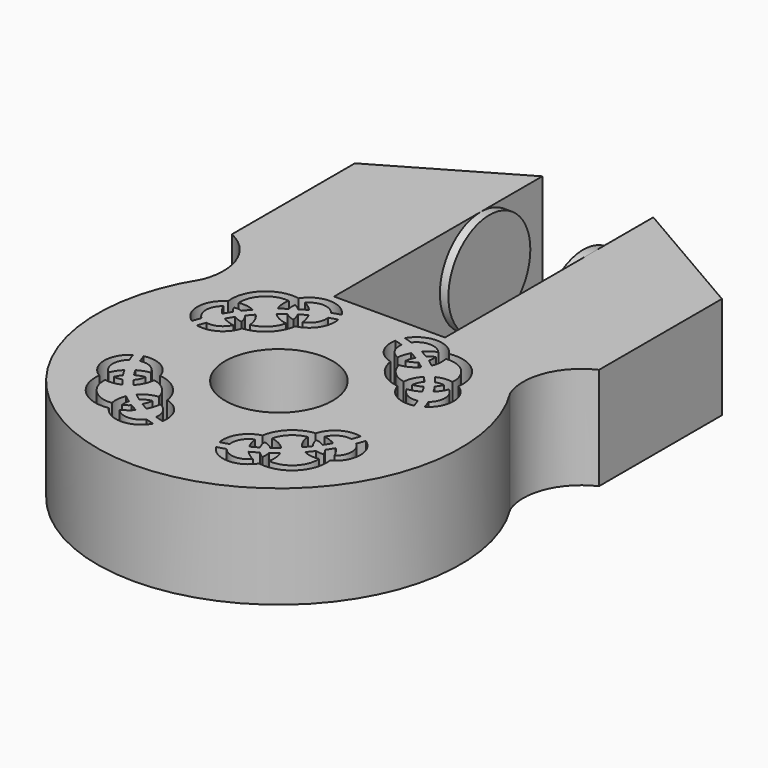
from build123d import *

# Parameters (mm, degrees)
F0_R          = 3.15
F1_DEPTH      = 6
F3_START      = 27.9
F2_R          = 3
F3_DEPTH      = 8.7
F5_DEPTH      = 19
F5_DEPTH_BACK = 25


with BuildPart() as f1:
    # F0 (on Top) → F1 (new body)
    with BuildSketch(Plane.XY):
        with BuildLine():
            Line((29.040071249, 38.9677833527), (29.040071249, 41.0097752675))
            ThreePointArc((29.040071249, 41.0097752675), (25.7590513112, 39.2801717515), (23.2701560445, 36.5302589336))
            ThreePointArc((23.2701560445, 36.5302589336), (32.290071249, 20.2177833527), (41.3099864535, 36.5302589336))
            ThreePointArc((41.3099864535, 36.5302589336), (38.8210911868, 39.2801717515), (35.540071249, 41.0097752675))
            Line((35.540071249, 41.0097752675), (35.540071249, 38.9677833527))
            Line((35.540071249, 38.9677833527), (32.290071249, 38.9677833527))
            Line((32.290071249, 38.9677833527), (29.040071249, 38.9677833527))
        make_face()
        with BuildLine():
            ThreePointArc((27.8877203609, 23.9150052295), (26.1387830721, 24.4357033031), (25.5405887312, 26.1596730402))
            ThreePointArc((25.5405887312, 26.1596730402), (24.7918203109, 27.4180215943), (25.4719329736, 28.7147644358))
            ThreePointArc((25.4719329736, 28.7147644358), (25.555043347, 28.4673877272), (25.6471257525, 28.2232086931))
            ThreePointArc((25.6471257525, 28.2232086931), (25.2915218496, 27.436279571), (25.6814485039, 26.6657805227))
            ThreePointArc((25.6814485039, 26.6657805227), (25.8613966017, 26.9970899772), (26.1003251005, 27.288741216))
            ThreePointArc((26.1003251005, 27.288741216), (26.2340964048, 27.066774449), (26.3758239621, 26.849801393))
            ThreePointArc((26.3758239621, 26.849801393), (26.2443611547, 26.6684839884), (26.1413601334, 26.4696140296))
            ThreePointArc((26.1413601334, 26.4696140296), (26.3827793564, 26.4625072644), (26.6188610264, 26.5134895396))
            ThreePointArc((26.6188610264, 26.5134895396), (26.781537443, 26.3094332885), (26.951552024, 26.1114494196))
            ThreePointArc((26.951552024, 26.1114494196), (26.4983669469, 25.9726762165), (26.0245067054, 25.9822254328))
            ThreePointArc((26.0245067054, 25.9822254328), (26.4843610596, 24.7970561149), (27.6888633314, 24.3905261448))
            ThreePointArc((27.6888633314, 24.3905261448), (27.6581862138, 24.8634887548), (27.776606132, 25.322412974))
            ThreePointArc((27.776606132, 25.322412974), (27.9819767444, 25.1613990563), (28.1930863622, 25.0079868685))
            ThreePointArc((28.1930863622, 25.0079868685), (28.1526856903, 24.7698660314), (28.1705543294, 24.5290041227))
            ThreePointArc((28.1705543294, 24.5290041227), (28.3646317872, 24.6407735786), (28.539904572, 24.7801935263))
            ThreePointArc((28.539904572, 24.7801935263), (28.7629836753, 24.6482855236), (28.9906966156, 24.5245486079))
            ThreePointArc((28.9906966156, 24.5245486079), (28.7099935253, 24.2728482947), (28.3870407651, 24.0783006469))
            ThreePointArc((28.3870407651, 24.0783006469), (29.1741662683, 23.7231316431), (29.9444497315, 24.1134840037))
            ThreePointArc((29.9444497315, 24.1134840037), (30.1924932194, 24.0323853095), (30.4433309849, 23.9603923549))
            ThreePointArc((30.4433309849, 23.9603923549), (29.1782165702, 23.2231130669), (27.8877203609, 23.9150052295))
        make_face(mode=Mode.SUBTRACT)
        with BuildLine():
            ThreePointArc((26.0992011688, 28.4396919932), (26.0117342514, 28.6757558563), (25.9332650097, 28.9149611807))
            ThreePointArc((25.9332650097, 28.9149611807), (27.0443453453, 28.7555752931), (27.7337409236, 27.8697778501))
            ThreePointArc((27.7337409236, 27.8697778501), (28.9034069718, 27.3265257973), (29.4982933846, 26.1822567673))
            ThreePointArc((29.4982933846, 26.1822567673), (30.4139608782, 25.5330600216), (30.6227498952, 24.4301953337))
            ThreePointArc((30.6227498952, 24.4301953337), (30.3802824064, 24.4979162759), (30.1405518942, 24.5747660682))
            ThreePointArc((30.1405518942, 24.5747660682), (30.01510222, 25.2271891987), (29.508499872, 25.6570119795))
            ThreePointArc((29.508499872, 25.6570119795), (29.4304608021, 25.2858647559), (29.2837607679, 24.9361227681))
            ThreePointArc((29.2837607679, 24.9361227681), (29.0628601776, 25.0533522799), (28.8465235362, 25.1788046088))
            ThreePointArc((28.8465235362, 25.1788046088), (28.9542000767, 25.4381586808), (29.0116486595, 25.7130376222))
            ThreePointArc((29.0116486595, 25.7130376222), (28.709681083, 25.6199408865), (28.4518378479, 25.437271005))
            ThreePointArc((28.4518378479, 25.437271005), (28.2490436993, 25.5864391732), (28.0520408702, 25.7431761963))
            ThreePointArc((28.0520408702, 25.7431761963), (28.4757034232, 26.0619767852), (28.9838127658, 26.2134649705))
            ThreePointArc((28.9838127658, 26.2134649705), (28.5578289844, 26.9651729855), (27.7878674158, 27.3572014345))
            ThreePointArc((27.7878674158, 27.3572014345), (27.6591951693, 26.8428404452), (27.3596101545, 26.4053789117))
            ThreePointArc((27.3596101545, 26.4053789117), (27.1942414713, 26.5951941053), (27.0361757768, 26.7911324765))
            ThreePointArc((27.0361757768, 26.7911324765), (27.2071622612, 27.056867385), (27.2866965118, 27.3626871399))
            ThreePointArc((27.2866965118, 27.3626871399), (27.0146537791, 27.2930342602), (26.7603609728, 27.1738959341))
            ThreePointArc((26.7603609728, 27.1738959341), (26.6253834236, 27.3844212067), (26.4984169232, 27.5998726793))
            ThreePointArc((26.4984169232, 27.5998726793), (26.8412669602, 27.7620275749), (27.2085636751, 27.8565446698))
            ThreePointArc((27.2085636751, 27.8565446698), (26.7565708033, 28.3434697212), (26.0992011688, 28.4396919932))
        make_face(mode=Mode.SUBTRACT)
        with BuildLine():
            ThreePointArc((25.9332650097, 32.8206055248), (26.0117342514, 33.0598108491), (26.0992011688, 33.2958747122))
            ThreePointArc((26.0992011688, 33.2958747122), (26.7565708033, 33.3920969842), (27.2085636751, 33.8790220357))
            ThreePointArc((27.2085636751, 33.8790220357), (26.8412669602, 33.9735391306), (26.4984169232, 34.1356940262))
            ThreePointArc((26.4984169232, 34.1356940262), (26.6253834236, 34.3511454987), (26.7603609728, 34.5616707714))
            ThreePointArc((26.7603609728, 34.5616707714), (27.0146537791, 34.4425324453), (27.2866965118, 34.3728795656))
            ThreePointArc((27.2866965118, 34.3728795656), (27.2071622612, 34.6786993204), (27.0361757768, 34.944434229))
            ThreePointArc((27.0361757768, 34.944434229), (27.1942414713, 35.1403726001), (27.3596101545, 35.3301877938))
            ThreePointArc((27.3596101545, 35.3301877938), (27.6591951693, 34.8927262603), (27.7878674158, 34.378365271))
            ThreePointArc((27.7878674158, 34.378365271), (28.5578289844, 34.7703937199), (28.9838127658, 35.522101735))
            ThreePointArc((28.9838127658, 35.522101735), (28.4757034232, 35.6735899203), (28.0520408702, 35.9923905092))
            ThreePointArc((28.0520408702, 35.9923905092), (28.2490436993, 36.1491275323), (28.4518378479, 36.2982957004))
            ThreePointArc((28.4518378479, 36.2982957004), (28.709681083, 36.1156258189), (29.0116486595, 36.0225290833))
            ThreePointArc((29.0116486595, 36.0225290833), (28.9542000767, 36.2974080246), (28.8465235362, 36.5567620967))
            ThreePointArc((28.8465235362, 36.5567620967), (29.0628601776, 36.6822144255), (29.2837607679, 36.7994439374))
            ThreePointArc((29.2837607679, 36.7994439374), (29.4304608021, 36.4497019496), (29.508499872, 36.078554726))
            ThreePointArc((29.508499872, 36.078554726), (30.01510222, 36.5083775068), (30.1405518942, 37.1608006372))
            ThreePointArc((30.1405518942, 37.1608006372), (30.3802824064, 37.2376504296), (30.6227498952, 37.3053713718))
            ThreePointArc((30.6227498952, 37.3053713718), (30.4139608782, 36.2025066839), (29.4982933846, 35.5533099382))
            ThreePointArc((29.4982933846, 35.5533099382), (28.9034069718, 34.4090409082), (27.7337409236, 33.8657888553))
            ThreePointArc((27.7337409236, 33.8657888553), (27.0443453453, 32.9799914124), (25.9332650097, 32.8206055248))
        make_face(mode=Mode.SUBTRACT)
        with BuildLine():
            ThreePointArc((25.6814485039, 35.0697861827), (25.2915218496, 34.2992871345), (25.6471257525, 33.5123580124))
            ThreePointArc((25.6471257525, 33.5123580124), (25.555043347, 33.2681789783), (25.4719329736, 33.0208022697))
            ThreePointArc((25.4719329736, 33.0208022697), (24.7918203109, 34.3175451112), (25.5405887312, 35.5758936653))
            ThreePointArc((25.5405887312, 35.5758936653), (26.1387830721, 37.2998634024), (27.8877203609, 37.8205614759))
            ThreePointArc((27.8877203609, 37.8205614759), (29.1782165702, 38.5124536386), (30.4433309849, 37.7751743506))
            ThreePointArc((30.4433309849, 37.7751743506), (30.1924932194, 37.703181396), (29.9444497315, 37.6220827018))
            ThreePointArc((29.9444497315, 37.6220827018), (29.1741662683, 38.0124350624), (28.3870407651, 37.6572660586))
            ThreePointArc((28.3870407651, 37.6572660586), (28.7099935253, 37.4627184108), (28.9906966156, 37.2110180976))
            ThreePointArc((28.9906966156, 37.2110180976), (28.7629836753, 37.0872811819), (28.539904572, 36.9553731791))
            ThreePointArc((28.539904572, 36.9553731791), (28.3646317872, 37.0947931268), (28.1705543294, 37.2065625827))
            ThreePointArc((28.1705543294, 37.2065625827), (28.1526856903, 36.965700674), (28.1930863622, 36.727579837))
            ThreePointArc((28.1930863622, 36.727579837), (27.9819767444, 36.5741676492), (27.776606132, 36.4131537315))
            ThreePointArc((27.776606132, 36.4131537315), (27.6581862138, 36.8720779507), (27.6888633314, 37.3450405607))
            ThreePointArc((27.6888633314, 37.3450405607), (26.4843610596, 36.9385105906), (26.0245067054, 35.7533412726))
            ThreePointArc((26.0245067054, 35.7533412726), (26.4983669469, 35.7628904889), (26.951552024, 35.6241172859))
            ThreePointArc((26.951552024, 35.6241172859), (26.781537443, 35.4261334169), (26.6188610264, 35.2220771659))
            ThreePointArc((26.6188610264, 35.2220771659), (26.3827793564, 35.273059441), (26.1413601334, 35.2659526759))
            ThreePointArc((26.1413601334, 35.2659526759), (26.2443611547, 35.0670827171), (26.3758239621, 34.8857653125))
            ThreePointArc((26.3758239621, 34.8857653125), (26.2340964048, 34.6687922565), (26.1003251005, 34.4468254895))
            ThreePointArc((26.1003251005, 34.4468254895), (25.8613966017, 34.7384767282), (25.6814485039, 35.0697861827))
        make_face(mode=Mode.SUBTRACT)
        with BuildLine():
            ThreePointArc((36.1931017329, 24.0783006469), (35.8701489727, 24.2728482947), (35.5894458824, 24.5245486079))
            ThreePointArc((35.5894458824, 24.5245486079), (35.8171588227, 24.6482855236), (36.040237926, 24.7801935263))
            ThreePointArc((36.040237926, 24.7801935263), (36.2155107108, 24.6407735786), (36.4095881687, 24.5290041227))
            ThreePointArc((36.4095881687, 24.5290041227), (36.4274568077, 24.7698660314), (36.3870561358, 25.0079868685))
            ThreePointArc((36.3870561358, 25.0079868685), (36.5981657536, 25.1613990563), (36.803536366, 25.322412974))
            ThreePointArc((36.803536366, 25.322412974), (36.9219562842, 24.8634887548), (36.8912791666, 24.3905261448))
            ThreePointArc((36.8912791666, 24.3905261448), (38.0957814384, 24.7970561149), (38.5556357926, 25.9822254328))
            ThreePointArc((38.5556357926, 25.9822254328), (38.0817755512, 25.9726762165), (37.6285904741, 26.1114494196))
            ThreePointArc((37.6285904741, 26.1114494196), (37.798605055, 26.3094332885), (37.9612814716, 26.5134895396))
            ThreePointArc((37.9612814716, 26.5134895396), (38.1973631417, 26.4625072644), (38.4387823646, 26.4696140296))
            ThreePointArc((38.4387823646, 26.4696140296), (38.3357813433, 26.6684839884), (38.2043185359, 26.849801393))
            ThreePointArc((38.2043185359, 26.849801393), (38.3460460932, 27.066774449), (38.4798173975, 27.288741216))
            ThreePointArc((38.4798173975, 27.288741216), (38.7187458963, 26.9970899772), (38.8986939941, 26.6657805227))
            ThreePointArc((38.8986939941, 26.6657805227), (39.2886206485, 27.436279571), (38.9330167455, 28.2232086931))
            ThreePointArc((38.9330167455, 28.2232086931), (39.025099151, 28.4673877272), (39.1082095245, 28.7147644358))
            ThreePointArc((39.1082095245, 28.7147644358), (39.7883221871, 27.4180215943), (39.0395537668, 26.1596730402))
            ThreePointArc((39.0395537668, 26.1596730402), (38.4413594259, 24.4357033031), (36.6924221371, 23.9150052295))
            ThreePointArc((36.6924221371, 23.9150052295), (35.4019259278, 23.2231130669), (34.1368115131, 23.9603923549))
            ThreePointArc((34.1368115131, 23.9603923549), (34.3876492786, 24.0323853095), (34.6356927665, 24.1134840037))
            ThreePointArc((34.6356927665, 24.1134840037), (35.4059762297, 23.7231316431), (36.1931017329, 24.0783006469))
        make_face(mode=Mode.SUBTRACT)
        with BuildLine():
            ThreePointArc((38.0817255749, 27.5998726793), (37.9547590745, 27.3844212067), (37.8197815252, 27.1738959341))
            ThreePointArc((37.8197815252, 27.1738959341), (37.5654887189, 27.2930342602), (37.2934459862, 27.3626871399))
            ThreePointArc((37.2934459862, 27.3626871399), (37.3729802368, 27.056867385), (37.5439667213, 26.7911324765))
            ThreePointArc((37.5439667213, 26.7911324765), (37.3859010267, 26.5951941053), (37.2205323435, 26.4053789117))
            ThreePointArc((37.2205323435, 26.4053789117), (36.9209473288, 26.8428404452), (36.7922750823, 27.3572014345))
            ThreePointArc((36.7922750823, 27.3572014345), (36.0223135136, 26.9651729855), (35.5963297322, 26.2134649705))
            ThreePointArc((35.5963297322, 26.2134649705), (36.1044390748, 26.0619767852), (36.5281016279, 25.7431761963))
            ThreePointArc((36.5281016279, 25.7431761963), (36.3310987987, 25.5864391732), (36.1283046501, 25.437271005))
            ThreePointArc((36.1283046501, 25.437271005), (35.8704614151, 25.6199408865), (35.5684938385, 25.7130376222))
            ThreePointArc((35.5684938385, 25.7130376222), (35.6259424213, 25.4381586808), (35.7336189619, 25.1788046088))
            ThreePointArc((35.7336189619, 25.1788046088), (35.5172823204, 25.0533522799), (35.2963817301, 24.9361227681))
            ThreePointArc((35.2963817301, 24.9361227681), (35.1496816959, 25.2858647559), (35.071642626, 25.6570119795))
            ThreePointArc((35.071642626, 25.6570119795), (34.565040278, 25.2271891987), (34.4395906038, 24.5747660682))
            ThreePointArc((34.4395906038, 24.5747660682), (34.1998600916, 24.4979162759), (33.9573926028, 24.4301953337))
            ThreePointArc((33.9573926028, 24.4301953337), (34.1661816199, 25.5330600216), (35.0818491134, 26.1822567673))
            ThreePointArc((35.0818491134, 26.1822567673), (35.6767355262, 27.3265257973), (36.8464015744, 27.8697778501))
            ThreePointArc((36.8464015744, 27.8697778501), (37.5357971527, 28.7555752931), (38.6468774883, 28.9149611807))
            ThreePointArc((38.6468774883, 28.9149611807), (38.5684082466, 28.6757558563), (38.4809413292, 28.4396919932))
            ThreePointArc((38.4809413292, 28.4396919932), (37.8235716947, 28.3434697212), (37.3715788229, 27.8565446698))
            ThreePointArc((37.3715788229, 27.8565446698), (37.7388755379, 27.7620275749), (38.0817255749, 27.5998726793))
        make_face(mode=Mode.SUBTRACT)
        with Locations((32.290071249, 30.8677833527)):
            Circle(F0_R, mode=Mode.SUBTRACT)
        with BuildLine():
            ThreePointArc((37.3715788229, 33.8790220357), (37.8235716947, 33.3920969842), (38.4809413292, 33.2958747122))
            ThreePointArc((38.4809413292, 33.2958747122), (38.5684082466, 33.0598108491), (38.6468774883, 32.8206055248))
            ThreePointArc((38.6468774883, 32.8206055248), (37.5357971527, 32.9799914124), (36.8464015744, 33.8657888553))
            ThreePointArc((36.8464015744, 33.8657888553), (35.6767355262, 34.4090409082), (35.0818491134, 35.5533099382))
            ThreePointArc((35.0818491134, 35.5533099382), (34.1661816199, 36.2025066839), (33.9573926028, 37.3053713718))
            ThreePointArc((33.9573926028, 37.3053713718), (34.1998600916, 37.2376504296), (34.4395906038, 37.1608006372))
            ThreePointArc((34.4395906038, 37.1608006372), (34.565040278, 36.5083775068), (35.071642626, 36.078554726))
            ThreePointArc((35.071642626, 36.078554726), (35.1496816959, 36.4497019496), (35.2963817301, 36.7994439374))
            ThreePointArc((35.2963817301, 36.7994439374), (35.5172823204, 36.6822144255), (35.7336189619, 36.5567620967))
            ThreePointArc((35.7336189619, 36.5567620967), (35.6259424213, 36.2974080246), (35.5684938385, 36.0225290833))
            ThreePointArc((35.5684938385, 36.0225290833), (35.8704614151, 36.1156258189), (36.1283046501, 36.2982957004))
            ThreePointArc((36.1283046501, 36.2982957004), (36.3310987987, 36.1491275323), (36.5281016279, 35.9923905092))
            ThreePointArc((36.5281016279, 35.9923905092), (36.1044390748, 35.6735899203), (35.5963297322, 35.522101735))
            ThreePointArc((35.5963297322, 35.522101735), (36.0223135136, 34.7703937199), (36.7922750823, 34.378365271))
            ThreePointArc((36.7922750823, 34.378365271), (36.9209473288, 34.8927262603), (37.2205323435, 35.3301877938))
            ThreePointArc((37.2205323435, 35.3301877938), (37.3859010267, 35.1403726001), (37.5439667213, 34.944434229))
            ThreePointArc((37.5439667213, 34.944434229), (37.3729802368, 34.6786993204), (37.2934459862, 34.3728795656))
            ThreePointArc((37.2934459862, 34.3728795656), (37.5654887189, 34.4425324453), (37.8197815252, 34.5616707714))
            ThreePointArc((37.8197815252, 34.5616707714), (37.9547590745, 34.3511454987), (38.0817255749, 34.1356940262))
            ThreePointArc((38.0817255749, 34.1356940262), (37.7388755379, 33.9735391306), (37.3715788229, 33.8790220357))
        make_face(mode=Mode.SUBTRACT)
        with BuildLine():
            ThreePointArc((37.9612814716, 35.2220771659), (37.798605055, 35.4261334169), (37.6285904741, 35.6241172859))
            ThreePointArc((37.6285904741, 35.6241172859), (38.0817755512, 35.7628904889), (38.5556357926, 35.7533412726))
            ThreePointArc((38.5556357926, 35.7533412726), (38.0957814384, 36.9385105906), (36.8912791666, 37.3450405607))
            ThreePointArc((36.8912791666, 37.3450405607), (36.9219562842, 36.8720779507), (36.803536366, 36.4131537315))
            ThreePointArc((36.803536366, 36.4131537315), (36.5981657536, 36.5741676492), (36.3870561358, 36.727579837))
            ThreePointArc((36.3870561358, 36.727579837), (36.4274568077, 36.965700674), (36.4095881687, 37.2065625827))
            ThreePointArc((36.4095881687, 37.2065625827), (36.2155107108, 37.0947931268), (36.040237926, 36.9553731791))
            ThreePointArc((36.040237926, 36.9553731791), (35.8171588227, 37.0872811819), (35.5894458824, 37.2110180976))
            ThreePointArc((35.5894458824, 37.2110180976), (35.8701489727, 37.4627184108), (36.1931017329, 37.6572660586))
            ThreePointArc((36.1931017329, 37.6572660586), (35.4059762297, 38.0124350624), (34.6356927665, 37.6220827018))
            ThreePointArc((34.6356927665, 37.6220827018), (34.3876492786, 37.703181396), (34.1368115131, 37.7751743506))
            ThreePointArc((34.1368115131, 37.7751743506), (35.4019259278, 38.5124536386), (36.6924221371, 37.8205614759))
            ThreePointArc((36.6924221371, 37.8205614759), (38.4413594259, 37.2998634024), (39.0395537668, 35.5758936653))
            ThreePointArc((39.0395537668, 35.5758936653), (39.7883221871, 34.3175451112), (39.1082095245, 33.0208022697))
            ThreePointArc((39.1082095245, 33.0208022697), (39.025099151, 33.2681789783), (38.9330167455, 33.5123580124))
            ThreePointArc((38.9330167455, 33.5123580124), (39.2886206485, 34.2992871345), (38.8986939941, 35.0697861827))
            ThreePointArc((38.8986939941, 35.0697861827), (38.7187458963, 34.7384767282), (38.4798173975, 34.4468254895))
            ThreePointArc((38.4798173975, 34.4468254895), (38.3460460932, 34.6687922565), (38.2043185359, 34.8857653125))
            ThreePointArc((38.2043185359, 34.8857653125), (38.3357813433, 35.0670827171), (38.4387823646, 35.2659526759))
            ThreePointArc((38.4387823646, 35.2659526759), (38.1973631417, 35.273059441), (37.9612814716, 35.2220771659))
        make_face(mode=Mode.SUBTRACT)
        with BuildLine():
            ThreePointArc((23.2701560445, 36.5302589336), (25.7590513112, 39.2801717515), (29.040071249, 41.0097752675))
            Line((29.040071249, 41.0097752675), (29.040071249, 54.2177833527))
            Line((29.040071249, 54.2177833527), (21.540071249, 49.8677833527))
            Line((21.540071249, 49.8677833527), (21.540071249, 40.8677833527))
            ThreePointArc((21.540071249, 40.8677833527), (23.2675678368, 39.0430235595), (23.2701560445, 36.5302589336))
        make_face()
        with BuildLine():
            ThreePointArc((35.540071249, 41.0097752675), (38.8210911868, 39.2801717515), (41.3099864535, 36.5302589336))
            ThreePointArc((41.3099864535, 36.5302589336), (41.3125746612, 39.0430235595), (43.040071249, 40.8677833527))
            Line((43.040071249, 40.8677833527), (43.040071249, 49.8677833527))
            Line((43.040071249, 49.8677833527), (35.540071249, 54.2177833527))
            Line((35.540071249, 54.2177833527), (35.540071249, 41.0097752675))
        make_face()
    extrude(amount=F1_DEPTH)

    # F2 (on Right) → F3 (join)
    with BuildSketch(Plane.YZ.offset(F3_START)):
        with Locations((49.7152134776, 2.999961609)):
            Circle(F2_R)
    extrude(amount=F3_DEPTH)

    # F4 (on Top) → F5 (cut, two sides)
    with BuildSketch(Plane.XY) as f5_sk:
        Polygon((29.5400758386, 54.138854146), (29.5400758386, 49.4925267994), (29.5400758386, 45.9514074028), (35.0378900766, 45.9514074028), (35.0378900766, 54.138854146), align=None)
    extrude(amount=F5_DEPTH, mode=Mode.SUBTRACT)
    extrude(f5_sk.sketch, amount=-F5_DEPTH_BACK, mode=Mode.SUBTRACT)


solid = f1.part
